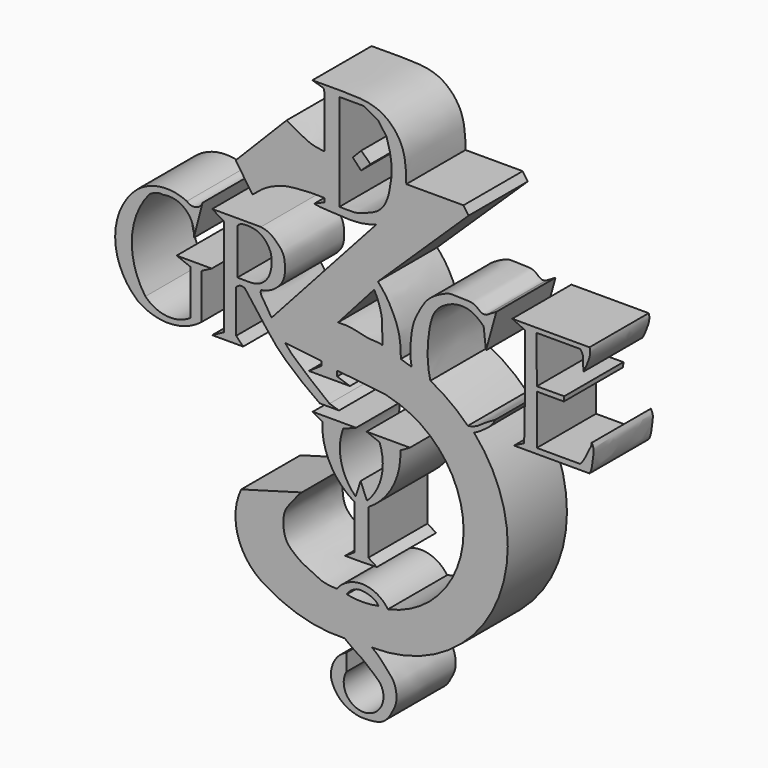
from build123d import *

# Parameters (mm, degrees)
F1_DEPTH = 12.7


with BuildPart() as f1:
    # F0 (on Front) → F1 (new body)
    with BuildSketch(Plane.XZ):
        with BuildLine():
            Line((-29.7971181571, 11.1410673708), (-29.7971181571, 3.3995141275))
            ThreePointArc((-29.7971181571, 3.3995141275), (-33.7854057971, 2.3618934202), (-37.502899766, 4.1404697113))
            ThreePointArc((-37.502899766, 4.1404697113), (-39.8283740603, 12.1331034857), (-36.7680676281, 19.8741983622))
            add(Edge.make_bspline(
                [(-36.7680676281, 19.8741983622), (-36.576801907, 19.9803730259), (-36.1653648419, 20.2087683272), (-35.3056786888, 20.5612283596), (-34.720225976, 20.517315447), (-34.4304777682, 20.495582372)],
                knots=[0, 0, 0, 0, 0.3049645815, 0.6560178774, 1, 1, 1, 1], degree=3))
            ThreePointArc((-34.4304777682, 20.495582372), (-30.5609965831, 19.4669888556), (-29.1955463413, 15.7031563805))
            Line((-29.1955463413, 15.7031563805), (-27.6867318898, 21.492280066))
            ThreePointArc((-27.6867318898, 21.492280066), (-28.8619910096, 20.4458820661), (-30.3829647601, 20.8493936807))
            ThreePointArc((-30.3829647601, 20.8493936807), (-34.738362933, 21.5728788816), (-38.8359054923, 19.9287775904))
            ThreePointArc((-38.8359054923, 19.9287775904), (-42.6959190693, 11.4967609989), (-38.8359054923, 3.0647444073))
            ThreePointArc((-38.8359054923, 3.0647444073), (-33.2980118792, 1.3969251909), (-27.8721917421, 3.3995141275))
            Line((-27.8721917421, 3.3995141275), (-27.8721917421, 11.1410673708))
            Line((-27.8721917421, 11.1410673708), (-26.1146500707, 12.0616843924))
            Line((-26.1146500707, 12.0616843924), (-32.1405082941, 12.0616843924))
            Line((-32.1405082941, 12.0616843924), (-29.7971181571, 11.1410673708))
        make_face()
    extrude(amount=F1_DEPTH)


with BuildPart() as f1b:
    # F0 (on Front) → F1, piece 2 (new body)
    with BuildSketch(Plane.XZ):
        with BuildLine():
            Line((27.5122839957, 3.1032534316), (25.7729366422, 2.1852643695))
            Line((25.7729366422, 2.1852643695), (38.7294851243, 2.1852643695))
            add(Edge.make_bspline(
                [(38.7294851243, 2.1852643695), (39.1354672611, 2.8069114778), (39.2245026961, 4.3294469004), (39.5219969936, 5.7639451783), (39.3839585009, 6.4599843489), (39.1013026237, 6.9407578558)],
                knots=[0, 0, 0, 0, 0.3931485061, 0.7061569327, 1, 1, 1, 1], degree=3))
            add(Edge.make_bspline(
                [(37.1106564999, 3.1032534316), (37.4709217415, 3.4366828047), (38.2190568198, 4.6908166808), (38.4804904623, 5.5163269438), (39.1013026237, 6.4203859225), (39.1013026237, 6.9407578558)],
                knots=[0, 0, 0, 0, 0.381176417, 0.6574696007, 1, 1, 1, 1], degree=3))
            Line((37.1106564999, 3.1032534316), (29.6864695847, 3.1032534316))
            Line((29.6864695847, 3.1032534316), (29.6864695847, 11.622752063))
            Line((29.6864695847, 11.622752063), (34.3268327415, 11.622752063))
            Line((34.3268327415, 11.622752063), (34.3896113336, 12.439109385))
            Line((34.3896113336, 12.439109385), (29.6851620078, 12.4153215438))
            Line((29.6851620078, 12.4153215438), (29.649971053, 20.4797293991))
            Line((29.649971053, 20.4797293991), (37.1106564999, 20.4797293991))
            add(Edge.make_bspline(
                [(37.1106564999, 20.4797293991), (37.4201212117, 20.1933164652), (37.662019767, 19.5317791405), (37.619359139, 18.7281294437), (37.6737266779, 17.8045593202), (37.6737266779, 17.2061137855)],
                knots=[0, 0, 0, 0, 0.3274272297, 0.6060783166, 1, 1, 1, 1], degree=3))
            add(Edge.make_bspline(
                [(38.7294851243, 21.2494637817), (38.8912368369, 20.8744148381), (38.8283505309, 19.8635797458), (38.3520483241, 18.723010124), (38.0256474018, 17.8047008812), (37.6737266779, 17.2061137855)],
                knots=[0, 0, 0, 0, 0.3237817009, 0.634150664, 1, 1, 1, 1], degree=3))
            Line((38.7294851243, 21.2494637817), (25.4621319473, 21.2494637817))
            Line((25.4621319473, 21.2494637817), (27.6792235672, 20.2294886112))
            Line((27.6792235672, 20.2294886112), (27.6792235672, 12.1768005192))
            Line((27.6792235672, 12.1768005192), (27.5122839957, 3.1032534316))
        make_face()
    extrude(amount=F1_DEPTH)


with BuildPart() as f1c:
    # F0 (on Front) → F1, piece 3 (new body)
    with BuildSketch(Plane.XZ):
        with BuildLine():
            Line((-1.3338557105, -3.9395014755), (-8.7787145749, -3.9395014755))
            Line((-8.7787145749, -3.9395014755), (-7.1319676936, -4.8875384964))
            ThreePointArc((-7.1319676936, -4.8875384964), (-5.8092792669, -10.8125030938), (-1.6448430251, -15.2297625318))
            Line((-1.6448430251, -15.2297625318), (-1.6448430251, -22.8902734816))
            Line((-1.6448430251, -22.8902734816), (-3.2243355217, -23.9055138081))
            Line((-3.2243355217, -23.9055138081), (0, -23.9055138081))
            Line((0, -23.9055138081), (2.2333156175, -23.8319049779))
            Line((2.2333156175, -23.8319049779), (0.7683424046, -22.8902734816))
            Line((0.7683424046, -22.8902734816), (0.7683424046, -15.2297625318))
            ThreePointArc((0.7683424046, -15.2297625318), (4.9327786464, -10.8125030938), (6.2554670731, -4.8875384964))
            Line((6.2554670731, -4.8875384964), (7.9022139544, -3.9395014755))
            Line((7.9022139544, -3.9395014755), (0.45735509, -3.9395014755))
            Line((0.45735509, -3.9395014755), (2.6841707295, -4.8076505773))
            ThreePointArc((2.6841707295, -4.8076505773), (3.0257121914, -9.9052145171), (0.5385152763, -14.3679110333))
            Line((0.5385152763, -14.3679110333), (-0.5661416799, -11.7370961234))
            Line((-0.5661416799, -11.7370961234), (-1.4150158968, -14.3679110333))
            ThreePointArc((-1.4150158968, -14.3679110333), (-3.9022128119, -9.9052145171), (-3.56067135, -4.8076505773))
            Line((-3.56067135, -4.8076505773), (-1.3338557105, -3.9395014755))
        make_face()
    extrude(amount=F1_DEPTH)


with BuildPart() as f1d:
    # F0 (on Front) → F1, piece 4 (new body)
    with BuildSketch(Plane.XZ):
        with BuildLine():
            Line((-6.7984834313, 29.0376730263), (-6.7984834313, 36.0694788396))
            add(Edge.make_bspline(
                [(-13.2829071954, 38.621198386), (-12.6749187164, 38.2809068168), (-11.6166995718, 37.6305288499), (-10.3319878297, 37.0794834219), (-9.0691220267, 36.3769931809), (-7.5771014915, 36.161768385), (-7.1023817347, 36.0662533691), (-6.7984834313, 36.0694788396)],
                knots=[0, 0, 0, 0, 0.2381214172, 0.4379692752, 0.6433633306, 0.8479090477, 1, 1, 1, 1], degree=3))
            Line((-13.2829071954, 38.621198386), (-22.0034793019, 29.7564845532))
            Line((-22.0034793019, 29.7564845532), (-19.1206466407, 25.5043040961))
            add(Edge.make_bspline(
                [(-19.1206466407, 25.5043040961), (-18.540585174, 26.0058820652), (-17.4140240863, 26.9804415767), (-15.5489898126, 27.9976729629), (-13.3240740662, 28.7658068245), (-10.7083017879, 28.9572875912), (-8.0229806578, 29.130102245), (-7.179408284, 28.982051498), (-6.7984834313, 29.0376730263)],
                knots=[0, 0, 0, 0, 0.1698759408, 0.3338167196, 0.5056091069, 0.6921830742, 0.8764692304, 1, 1, 1, 1], degree=3))
        make_face()
        with BuildLine():
            Line((-4.438429951, 10.9657068101), (1.7624083393, 17.9362123671))
            add(Edge.make_bspline(
                [(1.7624083393, 17.9362123671), (1.6890849385, 18.0708277583), (1.2665312484, 18.8162204906), (0.4509548237, 20.0139284897), (-0.1997924406, 20.4554414482), (-0.474241504, 20.6421185285)],
                knots=[0.6835549741, 0.6835549741, 0.6835549741, 0.6835549741, 0.719122311, 0.8814511111, 1, 1, 1, 1], degree=3))
            add(Edge.make_bspline(
                [(-4.438429951, 10.9657068101), (-4.4359086725, 11.150742762), (-4.4193783073, 12.1482077503), (-4.3764527247, 13.8623318492), (-3.4710941059, 16.3539192597), (-2.5742091463, 18.3055527845), (-1.397363128, 20.0136112741), (-0.7487077395, 20.4554297679), (-0.474241504, 20.6421185285)],
                knots=[0.1486439085, 0.1486439085, 0.1486439085, 0.1486439085, 0.1881063052, 0.3637175261, 0.5481742858, 0.7191047365, 0.8814436936, 1, 1, 1, 1], degree=3))
        make_face()
        with BuildLine():
            ThreePointArc((17.8403146565, 2.5929426774), (14.810490113, 5.2012278681), (11.420128867, 7.3198215105))
            add(Edge.make_bspline(
                [(17.8403146565, 2.5929426774), (17.2038350195, 2.5255574678), (15.8793852781, 2.6786346718), (14.1314275064, 2.9731644814), (12.327934881, 5.0923617377), (11.6530671163, 6.4812113405), (11.420128867, 7.3198215105)],
                knots=[0.2462654406, 0.2462654406, 0.2462654406, 0.2462654406, 0.3313584994, 0.4113157156, 0.5098888254, 0.605778528, 0.605778528, 0.605778528, 0.605778528], degree=3))
        make_face()
        with BuildLine():
            ThreePointArc((-16.6266099364, -32.9694224779), (-10.2195358984, -35.6544205531), (-3.3129091264, -36.4016280377))
            add(Edge.make_bspline(
                [(-5.7501415722, -32.5501449406), (-5.6781836852, -33.1683552398), (-5.5285853621, -34.453596204), (-4.2972488481, -35.5756510042), (-3.5105163249, -36.2394457561), (-3.3129091264, -36.4016280377)],
                knots=[0, 0, 0, 0, 0.1449966778, 0.3014438132, 0.3533836284, 0.3533836284, 0.3533836284, 0.3533836284], degree=3))
            ThreePointArc((-5.7501415722, -32.5501449406), (-5.4576317627, -30.8598220714), (-4.6497188352, -29.3465375335))
            add(Edge.make_bspline(
                [(-10.657183826, -16.744280234), (-11.2276386948, -17.2308289798), (-12.0240656128, -18.3964000291), (-13.6942602909, -20.226701156), (-13.9225186366, -22.546719254), (-13.5132754235, -24.9494376121), (-12.1026497385, -26.3097000619), (-10.6496210175, -27.4286703334), (-8.7805040922, -28.172209088), (-7.1260559997, -29.2150183299), (-5.5140796483, -29.2993591653), (-4.6497188352, -29.3465375335)],
                knots=[0, 0, 0, 0, 0.1121876355, 0.2295215348, 0.3442308053, 0.4609113175, 0.5652734874, 0.6681060105, 0.7753048126, 0.880650596, 1, 1, 1, 1], degree=3))
            add(Edge.make_bspline(
                [(-21.0602846742, -19.6683964018), (-17.4929603438, -18.7171099965), (-14.2245081564, -17.6955666393), (-10.657183826, -16.744280234)],
                knots=[0, 0, 0, 0, 10.8062464631, 10.8062464631, 10.8062464631, 10.8062464631], degree=3))
            ThreePointArc((-21.0602846742, -19.6683964018), (-21.5245656872, -27.212615442), (-16.6266099364, -32.9694224779))
        make_face()
        with BuildLine():
            Line((17.0989148319, 35.6756858527), (7.2769455753, 35.6756858527))
            add(Edge.make_bspline(
                [(7.2769455753, 35.6756858527), (7.2570789177, 35.0053903401), (7.0653544465, 33.1425844629), (5.7522107862, 30.0372494252), (3.6241675679, 28.5183122387), (2.3048346515, 27.9759152301), (2.1490465458, 27.9162812734)],
                knots=[0.5305651624, 0.5305651624, 0.5305651624, 0.5305651624, 0.57743913, 0.662160394, 0.7454091372, 0.7563735795, 0.7563735795, 0.7563735795, 0.7563735795], degree=3))
            Line((2.1490465458, 27.9162812734), (-15.8520726194, 7.9616722084))
            add(Edge.make_bspline(
                [(-15.8520726194, 7.9616722084), (-15.5539534868, 7.4486153005), (-15.0808310952, 6.599911185), (-14.1980058231, 5.6994680375), (-13.6702641941, 5.0829535835), (-13.5590198349, 4.9519985375)],
                knots=[0.2548955336, 0.2548955336, 0.2548955336, 0.2548955336, 0.3493512973, 0.4482707866, 0.4743141943, 0.4743141943, 0.4743141943, 0.4743141943], degree=3))
            Line((-13.5590198349, 4.9519985375), (-7.2626514135, 4.2157691041))
            Line((-7.2626514135, 4.2157691041), (-7.2626514135, 6.65141233))
            add(Edge.make_bspline(
                [(-7.2626514135, 6.65141233), (-7.2893037575, 7.9487291387), (-7.3287391126, 9.6699531976), (-7.2164917813, 11.0850561987), (-7.1774513043, 11.4217673195)],
                knots=[0, 0, 0, 0, 0.1778471218, 0.2361081694, 0.2361081694, 0.2361081694, 0.2361081694], degree=3))
            add(Edge.make_bspline(
                [(-7.1774513043, 11.4217673195), (-7.1175359588, 11.9385172346), (-6.8899086278, 13.2191079113), (-6.0955256139, 15.3247036549), (-4.6130546726, 18.0961110659), (-2.2005787328, 20.6513422098), (-1.2845361711, 21.4561308132), (-0.7361586532, 21.8412618853), (-0.474241504, 22.0195353031)],
                knots=[0.2361081694, 0.2361081694, 0.2361081694, 0.2361081694, 0.3255212882, 0.4710455789, 0.6377600545, 0.8096045839, 0.9106183599, 1, 1, 1, 1], degree=3))
            add(Edge.make_bspline(
                [(2.4172507293, 19.3764614969), (1.96810798, 19.8830129848), (1.0572143925, 20.8225569795), (0.336056324, 21.4561283327), (-0.212332416, 21.8412673722), (-0.474241504, 22.0195353031)],
                knots=[0.7148339659, 0.7148339659, 0.7148339659, 0.7148339659, 0.8096104439, 0.9106211109, 1, 1, 1, 1], degree=3))
            Line((2.4172507293, 19.3764614969), (17.9730699692, 34.3958445565))
            Line((17.9730699692, 34.3958445565), (17.0989148319, 35.6756858527))
        make_face()
        with BuildLine():
            add(Edge.make_bspline(
                [(-15.8520726194, 7.9616722084), (-15.5539534868, 7.4486153005), (-15.0808310952, 6.599911185), (-14.1980058231, 5.6994680375), (-13.6702641941, 5.0829535835), (-13.5590198349, 4.9519985375)],
                knots=[0.2548955336, 0.2548955336, 0.2548955336, 0.2548955336, 0.3493512973, 0.4482707866, 0.4743141943, 0.4743141943, 0.4743141943, 0.4743141943], degree=3))
            add(Edge.make_bspline(
                [(-17.676146701, 11.5510374308), (-17.7033666895, 11.362478031), (-17.7696113927, 10.9028412133), (-17.0083373516, 9.9087628422), (-16.2147656796, 8.5858595202), (-15.8520726194, 7.9616722084)],
                knots=[0, 0, 0, 0, 0.0574594913, 0.1399802321, 0.2548955336, 0.2548955336, 0.2548955336, 0.2548955336], degree=3))
            add(Edge.make_bspline(
                [(-17.676146701, 21.0946127772), (-17.2246228424, 21.0045780265), (-16.3285362834, 20.8111768535), (-15.1756173952, 19.9360008355), (-14.0258936185, 18.7198777346), (-13.5723290963, 17.5858558198), (-13.477990608, 15.4558549724), (-13.8632837741, 13.9766500584), (-14.9311483509, 12.7714382431), (-16.0963762289, 11.9464237103), (-17.1641160315, 11.6608372671), (-17.676146701, 11.5510374308)],
                knots=[0, 0, 0, 0, 0.1044231854, 0.2125007989, 0.3269834734, 0.4263428488, 0.5558093783, 0.6672617003, 0.7786416221, 0.8860904135, 1, 1, 1, 1], degree=3))
            Line((-17.676146701, 21.0946127772), (-26.0397139937, 21.0946127772))
            Line((-26.0397139937, 21.0946127772), (-24.0094996989, 19.8505613953))
            Line((-24.0094996989, 19.8505613953), (-24.0094996989, 3.1147119589))
            Line((-24.0094996989, 3.1147119589), (-26.0397139937, 2.0209073555))
            Line((-26.0397139937, 2.0209073555), (-20.7244195044, 2.0209073555))
            Line((-20.7244195044, 2.0209073555), (-21.9184793532, 3.2654120587))
            Line((-21.9184793532, 3.2654120587), (-21.9184793532, 10.637242347))
            add(Edge.make_bspline(
                [(-21.9184793532, 10.637242347), (-21.705066412, 10.8201108686), (-21.276664986, 11.1871979582), (-20.7252423589, 11.0429723678), (-20.4485170543, 10.9705943614)],
                knots=[0, 0, 0, 0, 0.4981611363, 1, 1, 1, 1], degree=3))
            add(Edge.make_bspline(
                [(-20.4485170543, 10.9705943614), (-20.1173343796, 10.5516607531), (-19.3649660696, 9.5999431816), (-17.7671998177, 7.451820523), (-15.6250655524, 4.5678752336), (-14.0491565866, 2.8945291557), (-12.4073614243, 1.4618155891), (-10.0376412226, -0.5404138143), (-8.3911666877, -1.7016800924), (-7.5703714974, -2.2805908229)],
                knots=[0, 0, 0, 0, 0.1144480342, 0.2599987278, 0.428394647, 0.5616578058, 0.6905720457, 0.8457449713, 1, 1, 1, 1], degree=3))
            Line((-7.5703714974, -2.2805908229), (-4.2645186186, -2.2805908229))
            Line((-4.2645186186, -2.2805908229), (-5.8965217322, -1.7784357769))
            add(Edge.make_bspline(
                [(-13.5590198349, 4.9519985375), (-13.1834815709, 4.5099210158), (-12.3118693503, 3.458735416), (-10.8307073712, 2.2452556168), (-9.4517885816, 1.0611831061), (-7.7323693181, -0.3845169689), (-6.512884086, -1.3104440936), (-5.8965217322, -1.7784357769)],
                knots=[0.4743141943, 0.4743141943, 0.4743141943, 0.4743141943, 0.562231426, 0.6708628855, 0.7723578603, 0.8849544012, 1, 1, 1, 1], degree=3))
        make_face()
        with BuildLine():
            add(Edge.make_bspline(
                [(-21.7139534652, 19.9803730259), (-21.5515984267, 20.1465974285), (-21.1097926656, 20.5989414821), (-18.6536176648, 20.595865411), (-17.0761596626, 19.6404230723), (-15.8581583055, 17.9232536775), (-15.7398408589, 15.8262234232), (-16.2959129399, 13.6495258409), (-17.9616798621, 12.1956502272), (-19.8892726064, 12.074526928), (-21.0948074101, 12.1632355858), (-21.7139534652, 12.1315810829)],
                knots=[0, 0, 0, 0, 0.0719622734, 0.1957283904, 0.3075878637, 0.4224982782, 0.539644122, 0.6606916268, 0.7777420298, 0.8892002853, 1, 1, 1, 1], degree=3))
            Line((-21.7139534652, 12.1315810829), (-21.7139534652, 19.9803730259))
        make_face(mode=Mode.SUBTRACT)
        with BuildLine():
            add(Edge.make_bspline(
                [(21.0201479495, 20.3932113945), (20.7765887664, 20.3478183053), (20.2306457462, 20.246068743), (19.3477083483, 21.1558998253), (18.3289815589, 21.5914598178), (15.553139974, 21.5175552628), (14.4973713303, 21.64061584), (11.5778457323, 20.1819191406), (10.3002985547, 18.6894550777), (9.3341738679, 16.9752538072), (8.2224569644, 14.7748847592), (7.9056227536, 10.8567522592), (8.0330053289, 9.0999647309), (8.2064590453, 8.3347997019)],
                knots=[0, 0, 0, 0, 0.0330189228, 0.0740126084, 0.1156089865, 0.1781821181, 0.2199410095, 0.2872410682, 0.3423064625, 0.3947497231, 0.4553966342, 0.5334733408, 0.5856234173, 0.5856234173, 0.5856234173, 0.5856234173], degree=3))
            Line((8.2064590453, 8.3347997019), (11.420128867, 7.3198215105))
            add(Edge.make_bspline(
                [(11.420128867, 7.3198215105), (11.1645501314, 8.2399405876), (10.9142388058, 10.2833337919), (10.9413070648, 12.3850020487), (11.1887796113, 15.1140901607), (11.6689736024, 16.9780198485), (12.0173562318, 17.6253542304)],
                knots=[0.605778528, 0.605778528, 0.605778528, 0.605778528, 0.7109882523, 0.800294367, 0.9015971986, 1, 1, 1, 1], degree=3))
            add(Edge.make_bspline(
                [(12.0173562318, 17.6253542304), (12.3009655307, 18.2154671454), (13.2818678837, 19.3194012663), (15.9992399979, 20.6191683182), (18.8471481568, 20.1476762045), (20.0006870623, 19.0435046687), (20.5538459122, 18.5158513486)],
                knots=[0, 0, 0, 0, 0.2269654716, 0.4981382186, 0.7596249571, 1, 1, 1, 1], degree=3))
            Line((20.5538459122, 18.5158513486), (20.9609623998, 15.0056686252))
            Line((20.9609623998, 15.0056686252), (22.7365288883, 21.4003678411))
            Line((22.7365288883, 21.4003678411), (21.0201479495, 20.3932113945))
        make_face()
        with BuildLine():
            Line((8.2064590453, 8.3347997019), (6.3473860439, 8.9518954043))
            add(Edge.make_bspline(
                [(6.3152593793, 6.650485564), (6.3312828637, 7.4304370588), (6.3485034563, 8.2100786937), (6.3473860439, 8.9518954043)],
                knots=[0, 0, 0, 0, 0.1069223242, 0.1069223242, 0.1069223242, 0.1069223242], degree=3))
            Line((6.3152593793, 6.650485564), (6.3152593793, 3.4855878912))
            Line((6.3152593793, 3.4855878912), (8.4971581819, 2.0090183243))
            Line((8.4971581819, 2.0090183243), (6.123858504, 2.0090183243))
            ThreePointArc((6.123858504, 2.0090183243), (17.0848779954, -14.5488766617), (4.1266718719, -29.5952293333))
            ThreePointArc((4.1266718719, -29.5952293333), (4.8040915145, -31.0051833272), (5.0489613786, -32.5501449406))
            Line((5.0489613786, -32.5501449406), (1.9635031931, -34.0071693063))
            add(Edge.make_bspline(
                [(1.9635031931, -34.0071693063), (2.1959857726, -33.4778139479), (2.6218364086, -32.5081659349), (2.8405530333, -31.3570328143), (2.7251394817, -30.1463544577), (2.5246803538, -29.669288457), (2.4970862278, -29.6119618111)],
                knots=[0, 0, 0, 0, 0.0369658279, 0.0685356956, 0.104481434, 0.1096847218, 0.1096847218, 0.1096847218, 0.1096847218], degree=3))
            ThreePointArc((2.4970862278, -29.6119618111), (-0.2153014526, -29.9096377362), (-2.9306574725, -29.6403802931))
            add(Edge.make_bspline(
                [(-2.9306574725, -29.6403802931), (-3.1977742699, -30.1468315065), (-3.1552792357, -31.235446517), (-2.96117705, -33.1910680782), (-1.7872084145, -33.9813232855), (-0.0215611116, -35.4883038127), (0.9451013302, -35.9462022228), (1.395803587, -36.2544331594)],
                knots=[0.250510499, 0.250510499, 0.250510499, 0.250510499, 0.2876154352, 0.3266515185, 0.3603819692, 0.4041135267, 0.4411459459, 0.4411459459, 0.4411459459, 0.4411459459], degree=3))
            ThreePointArc((1.395803587, -36.2544331594), (22.6057060721, -22.8926899983), (18.9195135714, 1.902634734))
            add(Edge.make_bspline(
                [(8.2064590453, 8.3347997019), (8.2554441486, 8.1187092726), (8.6352130909, 6.6900985926), (10.1326527572, 3.4700519155), (13.1342171262, 1.5924581802), (16.9553383752, 1.1414827716), (18.5063601071, 1.7035099263), (18.9195135714, 1.902634734)],
                knots=[0.5856234173, 0.5856234173, 0.5856234173, 0.5856234173, 0.6003511323, 0.6808246683, 0.753102517, 0.832516876, 0.8649664827, 0.8649664827, 0.8649664827, 0.8649664827], degree=3))
        make_face()
        with BuildLine():
            add(Edge.make_bspline(
                [(-8.8378135115, 46.136058867), (-7.5384679959, 46.1312995757), (-5.0997292226, 46.1226147181), (-2.270211617, 46.1864467783), (2.0206074661, 45.9108767455), (5.0262748588, 43.8428533182), (6.8903729645, 40.9728038307), (7.2480720104, 37.9217494883), (7.2921414057, 36.1883889527), (7.2769455753, 35.6756858527)],
                knots=[0, 0, 0, 0, 0.0844559114, 0.1589158414, 0.2483250498, 0.3307955003, 0.4102796703, 0.4947116798, 0.5305651624, 0.5305651624, 0.5305651624, 0.5305651624], degree=3))
            Line((-8.8378135115, 46.136058867), (-6.9303871132, 45.5725006759))
            Line((-6.9303871132, 45.5725006759), (-6.7984834313, 45.0613734436))
            Line((-6.7984834313, 45.0613734436), (-6.7984834313, 36.0694788396))
            Line((-6.7984834313, 36.0694788396), (-6.7984834313, 29.0376730263))
            Line((-6.7984834313, 29.0376730263), (-6.7984834313, 28.3579870389))
            Line((-6.7984834313, 28.3579870389), (-8.5261855274, 27.5901202112))
            add(Edge.make_bspline(
                [(2.1490465458, 27.9162812734), (1.0554136121, 27.4976507318), (-1.4701209919, 26.9803817006), (-4.9874001777, 27.350391733), (-7.3970016462, 27.3192385658), (-8.5261855274, 27.5901202112)],
                knots=[0.7563735795, 0.7563735795, 0.7563735795, 0.7563735795, 0.8333439944, 0.9177899113, 1, 1, 1, 1], degree=3))
            add(Edge.make_bspline(
                [(7.2769455753, 35.6756858527), (7.2570789177, 35.0053903401), (7.0653544465, 33.1425844629), (5.7522107862, 30.0372494252), (3.6241675679, 28.5183122387), (2.3048346515, 27.9759152301), (2.1490465458, 27.9162812734)],
                knots=[0.5305651624, 0.5305651624, 0.5305651624, 0.5305651624, 0.57743913, 0.662160394, 0.7454091372, 0.7563735795, 0.7563735795, 0.7563735795, 0.7563735795], degree=3))
        make_face()
        with BuildLine():
            Line((-4.1957469657, 35.6756858527), (-4.1957469657, 45.1180823147))
            Line((-4.1957469657, 45.1180823147), (-2.3398448247, 45.1180823147))
            Line((-2.3398448247, 45.1180823147), (0, 45.1180823147))
            Line((0, 45.1180823147), (2.403015038, 43.7777116895))
            Line((2.403015038, 43.7777116895), (3.8869925775, 41.7699784034))
            add(Edge.make_bspline(
                [(3.8869925775, 41.7699784034), (4.2963050021, 40.536376722), (4.8298830292, 38.2989833044), (4.7661953604, 36.3852132581), (4.6950593228, 35.6756858527)],
                knots=[0, 0, 0, 0, 0.1726431353, 0.2791323741, 0.2791323741, 0.2791323741, 0.2791323741], degree=3))
            add(Edge.make_bspline(
                [(4.6950593228, 35.6756858527), (4.6632178554, 35.3580916421), (4.4968407441, 34.0930071515), (4.0518056405, 31.9816471148), (2.6134870655, 29.867361523), (-0.045041584, 28.9149677298), (-1.5047022666, 28.3890161617), (-3.516962684, 28.5183818402), (-4.1957469657, 28.5180713981)],
                knots=[0.2791323741, 0.2791323741, 0.2791323741, 0.2791323741, 0.3267984198, 0.4714994806, 0.6075577547, 0.7488440059, 0.860845401, 1, 1, 1, 1], degree=3))
            Line((-4.1957469657, 28.5180713981), (-4.1957469657, 35.6756858527))
        make_face(mode=Mode.SUBTRACT)
        with BuildLine():
            add(Edge.make_bspline(
                [(3.1702560373, 8.7375380099), (3.1818986535, 9.1499473595), (3.1753805598, 9.5823066074), (3.1642619225, 10.0141311361)],
                knots=[0, 0, 0, 0, 0.0842484408, 0.0842484408, 0.0842484408, 0.0842484408], degree=3))
            add(Edge.make_bspline(
                [(-4.438429951, 10.9657068101), (-3.8959085462, 10.9888800467), (-2.8289176808, 11.0325470662), (-0.8762520824, 10.6647733342), (0.8475535527, 10.1684708393), (2.7918646788, 10.2239571274), (2.9958655654, 10.0252980815), (3.1642619225, 10.0141311361)],
                knots=[0, 0, 0, 0, 0.2101778655, 0.440584317, 0.6716897959, 0.8929317746, 1, 1, 1, 1], degree=3))
            add(Edge.make_bspline(
                [(-4.4296211563, 8.8154831901), (-4.4501628301, 9.5431184683), (-4.4479269085, 10.2687276748), (-4.438429951, 10.9657068101)],
                knots=[0, 0, 0, 0, 0.1486439085, 0.1486439085, 0.1486439085, 0.1486439085], degree=3))
            Line((-4.4296211563, 8.8154831901), (-0.474241504, 8.8154831901))
            Line((-0.474241504, 8.8154831901), (3.1702560373, 8.7375380099))
        make_face()
        Polygon((-4.5880662052, 3.6148922518), (-7.2626514135, 4.2157691041), (-7.2626514135, 3.4865146571), (-9.4445502161, 2.0099450903), (-2.4061676355, 2.0099450903), (-4.5880662052, 2.7482298737), align=None)
        with BuildLine():
            Line((-4.6497188352, -29.3465375335), (-2.9306574725, -29.6403802931))
            add(Edge.make_bspline(
                [(2.4970862278, -29.6119618111), (2.3698010155, -29.3475274786), (1.9454892136, -28.8612656939), (0.6688970737, -28.3525456955), (-1.2989236111, -27.9952931056), (-2.6257772134, -29.0623298727), (-2.9306574725, -29.6403802931)],
                knots=[0.1096847218, 0.1096847218, 0.1096847218, 0.1096847218, 0.1336862646, 0.1678542497, 0.2081598768, 0.250510499, 0.250510499, 0.250510499, 0.250510499], degree=3))
            add(Edge.make_bspline(
                [(1.9635031931, -34.0071693063), (2.1959857726, -33.4778139479), (2.6218364086, -32.5081659349), (2.8405530333, -31.3570328143), (2.7251394817, -30.1463544577), (2.5246803538, -29.669288457), (2.4970862278, -29.6119618111)],
                knots=[0, 0, 0, 0, 0.0369658279, 0.0685356956, 0.104481434, 0.1096847218, 0.1096847218, 0.1096847218, 0.1096847218], degree=3))
            Line((1.9635031931, -34.0071693063), (5.0489613786, -32.5501449406))
            ThreePointArc((5.0489613786, -32.5501449406), (4.8040915145, -31.0051833272), (4.1266718719, -29.5952293333))
            ThreePointArc((4.1266718719, -29.5952293333), (-0.1976366243, -27.2163015697), (-4.6497188352, -29.3465375335))
        make_face()
        with BuildLine():
            Line((-7.2626514135, 6.65141233), (-7.2626514135, 4.2157691041))
            Line((-7.2626514135, 4.2157691041), (-4.5880662052, 3.6148922518))
            Line((-4.5880662052, 3.6148922518), (-4.232368432, 3.6148922518))
            Line((-4.232368432, 3.6148922518), (3.640674171, 2.7473031078))
            Line((3.640674171, 2.7473031078), (6.123858504, 2.0090183243))
            Line((6.123858504, 2.0090183243), (8.4971581819, 2.0090183243))
            Line((8.4971581819, 2.0090183243), (6.3152593793, 3.4855878912))
            Line((6.3152593793, 3.4855878912), (6.3152593793, 6.650485564))
            add(Edge.make_bspline(
                [(6.3152593793, 6.650485564), (6.3312828637, 7.4304370588), (6.3485034563, 8.2100786937), (6.3473860439, 8.9518954043)],
                knots=[0, 0, 0, 0, 0.1069223242, 0.1069223242, 0.1069223242, 0.1069223242], degree=3))
            Line((6.3473860439, 8.9518954043), (3.1642619225, 10.0141311361))
            add(Edge.make_bspline(
                [(3.1702560373, 8.7375380099), (3.1818986535, 9.1499473595), (3.1753805598, 9.5823066074), (3.1642619225, 10.0141311361)],
                knots=[0, 0, 0, 0, 0.0842484408, 0.0842484408, 0.0842484408, 0.0842484408], degree=3))
            Line((3.1702560373, 8.7375380099), (-0.474241504, 8.8154831901))
            Line((-0.474241504, 8.8154831901), (-4.4296211563, 8.8154831901))
            add(Edge.make_bspline(
                [(-4.4296211563, 8.8154831901), (-4.4501628301, 9.5431184683), (-4.4479269085, 10.2687276748), (-4.438429951, 10.9657068101)],
                knots=[0, 0, 0, 0, 0.1486439085, 0.1486439085, 0.1486439085, 0.1486439085], degree=3))
            Line((-4.438429951, 10.9657068101), (-7.1774513043, 11.4217673195))
            add(Edge.make_bspline(
                [(-7.2626514135, 6.65141233), (-7.2893037575, 7.9487291387), (-7.3287391126, 9.6699531976), (-7.2164917813, 11.0850561987), (-7.1774513043, 11.4217673195)],
                knots=[0, 0, 0, 0, 0.1778471218, 0.2361081694, 0.2361081694, 0.2361081694, 0.2361081694], degree=3))
        make_face()
        with BuildLine():
            Line((11.420128867, 7.3198215105), (8.2064590453, 8.3347997019))
            add(Edge.make_bspline(
                [(8.2064590453, 8.3347997019), (8.2554441486, 8.1187092726), (8.6352130909, 6.6900985926), (10.1326527572, 3.4700519155), (13.1342171262, 1.5924581802), (16.9553383752, 1.1414827716), (18.5063601071, 1.7035099263), (18.9195135714, 1.902634734)],
                knots=[0.5856234173, 0.5856234173, 0.5856234173, 0.5856234173, 0.6003511323, 0.6808246683, 0.753102517, 0.832516876, 0.8649664827, 0.8649664827, 0.8649664827, 0.8649664827], degree=3))
            Line((18.9195135714, 1.902634734), (17.8403146565, 2.5929426774))
            add(Edge.make_bspline(
                [(17.8403146565, 2.5929426774), (17.2038350195, 2.5255574678), (15.8793852781, 2.6786346718), (14.1314275064, 2.9731644814), (12.327934881, 5.0923617377), (11.6530671163, 6.4812113405), (11.420128867, 7.3198215105)],
                knots=[0.2462654406, 0.2462654406, 0.2462654406, 0.2462654406, 0.3313584994, 0.4113157156, 0.5098888254, 0.605778528, 0.605778528, 0.605778528, 0.605778528], degree=3))
        make_face()
        with BuildLine():
            Line((17.8403146565, 2.5929426774), (18.9195135714, 1.902634734))
            add(Edge.make_bspline(
                [(18.9195135714, 1.902634734), (19.3152408614, 2.0933607652), (20.3322442989, 2.7222175775), (21.794051545, 3.7314433171), (22.3588770059, 4.6585459792), (22.6181279868, 5.0840796903)],
                knots=[0.8649664827, 0.8649664827, 0.8649664827, 0.8649664827, 0.8960474152, 0.9522864824, 1, 1, 1, 1], degree=3))
            add(Edge.make_bspline(
                [(22.6181279868, 5.0840796903), (22.0740661428, 4.7817122661), (20.9963374082, 4.1827566244), (19.5840521873, 3.0548007607), (18.4492219955, 2.6574087598), (17.8403146565, 2.5929426774)],
                knots=[0, 0, 0, 0, 0.0831843738, 0.1648586132, 0.2462654406, 0.2462654406, 0.2462654406, 0.2462654406], degree=3))
        make_face()
        with BuildLine():
            Line((-3.3129091264, -36.4016280377), (1.395803587, -36.2544331594))
            add(Edge.make_bspline(
                [(-2.9306574725, -29.6403802931), (-3.1977742699, -30.1468315065), (-3.1552792357, -31.235446517), (-2.96117705, -33.1910680782), (-1.7872084145, -33.9813232855), (-0.0215611116, -35.4883038127), (0.9451013302, -35.9462022228), (1.395803587, -36.2544331594)],
                knots=[0.250510499, 0.250510499, 0.250510499, 0.250510499, 0.2876154352, 0.3266515185, 0.3603819692, 0.4041135267, 0.4411459459, 0.4411459459, 0.4411459459, 0.4411459459], degree=3))
            Line((-2.9306574725, -29.6403802931), (-4.6497188352, -29.3465375335))
            ThreePointArc((-4.6497188352, -29.3465375335), (-5.4576317627, -30.8598220714), (-5.7501415722, -32.5501449406))
            add(Edge.make_bspline(
                [(-5.7501415722, -32.5501449406), (-5.6781836852, -33.1683552398), (-5.5285853621, -34.453596204), (-4.2972488481, -35.5756510042), (-3.5105163249, -36.2394457561), (-3.3129091264, -36.4016280377)],
                knots=[0, 0, 0, 0, 0.1449966778, 0.3014438132, 0.3533836284, 0.3533836284, 0.3533836284, 0.3533836284], degree=3))
        make_face()
        with BuildLine():
            add(Edge.make_bspline(
                [(1.395803587, -36.2544331594), (1.8801459066, -36.5856702114), (2.8640644494, -37.473318781), (4.1061365824, -38.8773598135), (5.3574990415, -40.2398253609), (5.8374684896, -42.9367955371), (4.9037208521, -44.8601698378), (4.0739790437, -46.270409767), (2.7831472426, -47.2388782402), (0.3801458259, -47.4783277004), (-1.3639277789, -47.3906609552), (-3.9950947658, -46.3397940186), (-5.6181069645, -43.8463635706), (-5.7920171982, -41.7092299845), (-4.7652786768, -39.3231159991), (-3.0075123068, -38.4639427066)],
                knots=[0.4411459459, 0.4411459459, 0.4411459459, 0.4411459459, 0.4809424358, 0.5205773869, 0.5596745612, 0.6061692355, 0.6482289301, 0.6846460418, 0.7205721356, 0.7646657524, 0.803391726, 0.8510606197, 0.899613272, 0.9404777906, 1, 1, 1, 1], degree=3))
            Line((1.395803587, -36.2544331594), (-3.3129091264, -36.4016280377))
            add(Edge.make_bspline(
                [(-3.3129091264, -36.4016280377), (-2.8790954472, -36.7576722141), (-1.8691967941, -37.5367520664), (-0.4053878805, -38.3421456535), (1.1012641651, -39.653472883), (2.4241860677, -40.7430078879), (2.7685371458, -41.1965581149), (2.9062819667, -41.3779839873)],
                knots=[0.3533836284, 0.3533836284, 0.3533836284, 0.3533836284, 0.4674088383, 0.6144311106, 0.7671857659, 0.9068713385, 1, 1, 1, 1], degree=3))
            ThreePointArc((2.9062819667, -41.3779839873), (-0.05061517, -46.4932854291), (-3.0075123068, -41.3779839873))
            Line((-3.0075123068, -41.3779839873), (-3.0075123068, -38.4639427066))
        make_face()
        with BuildLine():
            add(Edge.make_bspline(
                [(6.3473860439, 8.9518954043), (6.3466448878, 9.4439267911), (6.3194905352, 10.9093918327), (6.0563406802, 12.913655075), (5.1471583255, 15.3246626213), (3.9548222987, 17.5534945088), (2.7824487375, 18.9645844383), (2.4172507293, 19.3764614969)],
                knots=[0.1069223242, 0.1069223242, 0.1069223242, 0.1069223242, 0.177841648, 0.3255420472, 0.4710618589, 0.6377712035, 0.7148339659, 0.7148339659, 0.7148339659, 0.7148339659], degree=3))
            add(Edge.make_bspline(
                [(2.4172507293, 19.3764614969), (1.96810798, 19.8830129848), (1.0572143925, 20.8225569795), (0.336056324, 21.4561283327), (-0.212332416, 21.8412673722), (-0.474241504, 22.0195353031)],
                knots=[0.7148339659, 0.7148339659, 0.7148339659, 0.7148339659, 0.8096104439, 0.9106211109, 1, 1, 1, 1], degree=3))
            add(Edge.make_bspline(
                [(-7.1774513043, 11.4217673195), (-7.1175359588, 11.9385172346), (-6.8899086278, 13.2191079113), (-6.0955256139, 15.3247036549), (-4.6130546726, 18.0961110659), (-2.2005787328, 20.6513422098), (-1.2845361711, 21.4561308132), (-0.7361586532, 21.8412618853), (-0.474241504, 22.0195353031)],
                knots=[0.2361081694, 0.2361081694, 0.2361081694, 0.2361081694, 0.3255212882, 0.4710455789, 0.6377600545, 0.8096045839, 0.9106183599, 1, 1, 1, 1], degree=3))
            Line((-7.1774513043, 11.4217673195), (-4.438429951, 10.9657068101))
            add(Edge.make_bspline(
                [(-4.438429951, 10.9657068101), (-4.4359086725, 11.150742762), (-4.4193783073, 12.1482077503), (-4.3764527247, 13.8623318492), (-3.4710941059, 16.3539192597), (-2.5742091463, 18.3055527845), (-1.397363128, 20.0136112741), (-0.7487077395, 20.4554297679), (-0.474241504, 20.6421185285)],
                knots=[0.1486439085, 0.1486439085, 0.1486439085, 0.1486439085, 0.1881063052, 0.3637175261, 0.5481742858, 0.7191047365, 0.8814436936, 1, 1, 1, 1], degree=3))
            add(Edge.make_bspline(
                [(1.7624083393, 17.9362123671), (1.6890849385, 18.0708277583), (1.2665312484, 18.8162204906), (0.4509548237, 20.0139284897), (-0.1997924406, 20.4554414482), (-0.474241504, 20.6421185285)],
                knots=[0.6835549741, 0.6835549741, 0.6835549741, 0.6835549741, 0.719122311, 0.8814511111, 1, 1, 1, 1], degree=3))
            add(Edge.make_bspline(
                [(3.1642619225, 10.0141311361), (3.1493955414, 10.5915101669), (3.0912676655, 12.0425615931), (3.2469565859, 13.8990803683), (2.6038047673, 16.2070309702), (2.0414424359, 17.4239300181), (1.7624083393, 17.9362123671)],
                knots=[0.0842484408, 0.0842484408, 0.0842484408, 0.0842484408, 0.1968943881, 0.3678163039, 0.5482025547, 0.6835549741, 0.6835549741, 0.6835549741, 0.6835549741], degree=3))
            Line((3.1642619225, 10.0141311361), (6.3473860439, 8.9518954043))
        make_face()
    extrude(amount=F1_DEPTH)


with BuildPart() as f1e:
    # F0 (on Front) → F1, piece 5 (new body)
    with BuildSketch(Plane.XZ):
        Polygon((-1.9101970624, 36.7328879797), (-0.92729282, 35.6756858527), (-0.4879740005, 35.2031588554), (0.0226964732, 35.6756858527), (1.1242626608, 36.6949728288), (-0.4519385399, 38.2301323116), align=None)
    extrude(amount=F1_DEPTH)


solid = Compound([f1.part, f1b.part, f1c.part, f1d.part, f1e.part])
